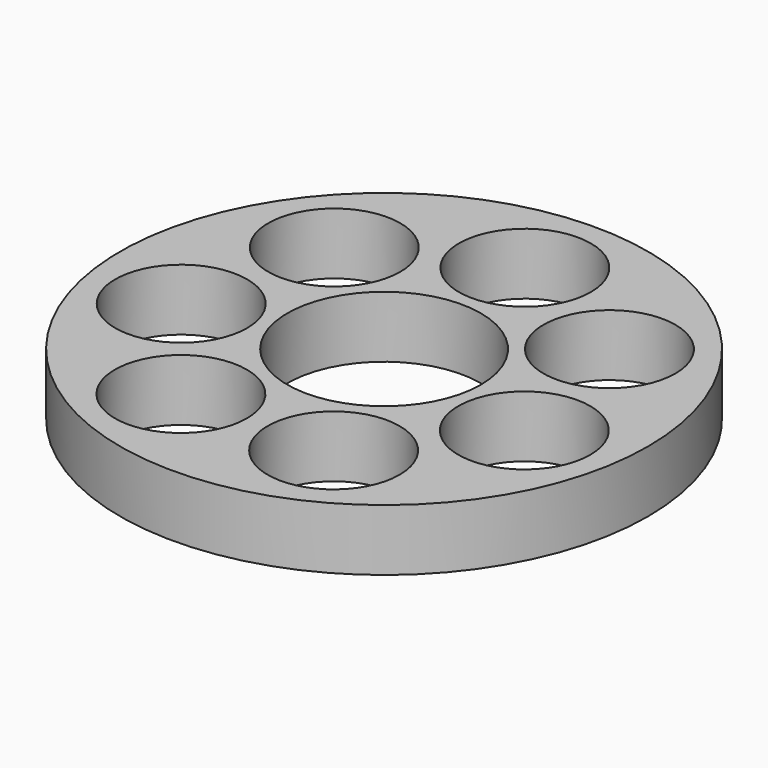
from build123d import *

# Parameters (mm, degrees)
F0_R     = 30
F0_R_2   = 7.5
F0_R_3   = 11
F1_DEPTH = 7


with BuildPart() as f1:
    # F0 (on Top) → F1 (new body)
    with BuildSketch(Plane.XY):
        Circle(F0_R)
        with Locations((-8.677675, -18.019377)):
            Circle(F0_R_2, mode=Mode.SUBTRACT)
        with Locations((-19.498558, -4.450419)):
            Circle(F0_R_2, mode=Mode.SUBTRACT)
        with Locations((8.677675, -18.019377)):
            Circle(F0_R_2, mode=Mode.SUBTRACT)
        with Locations((19.498558, -4.450419)):
            Circle(F0_R_2, mode=Mode.SUBTRACT)
        with Locations((-15.63663, 12.469796)):
            Circle(F0_R_2, mode=Mode.SUBTRACT)
        Circle(F0_R_3, mode=Mode.SUBTRACT)
        with Locations((15.63663, 12.469796)):
            Circle(F0_R_2, mode=Mode.SUBTRACT)
        with Locations((0, 20)):
            Circle(F0_R_2, mode=Mode.SUBTRACT)
    extrude(amount=F1_DEPTH)


solid = f1.part
